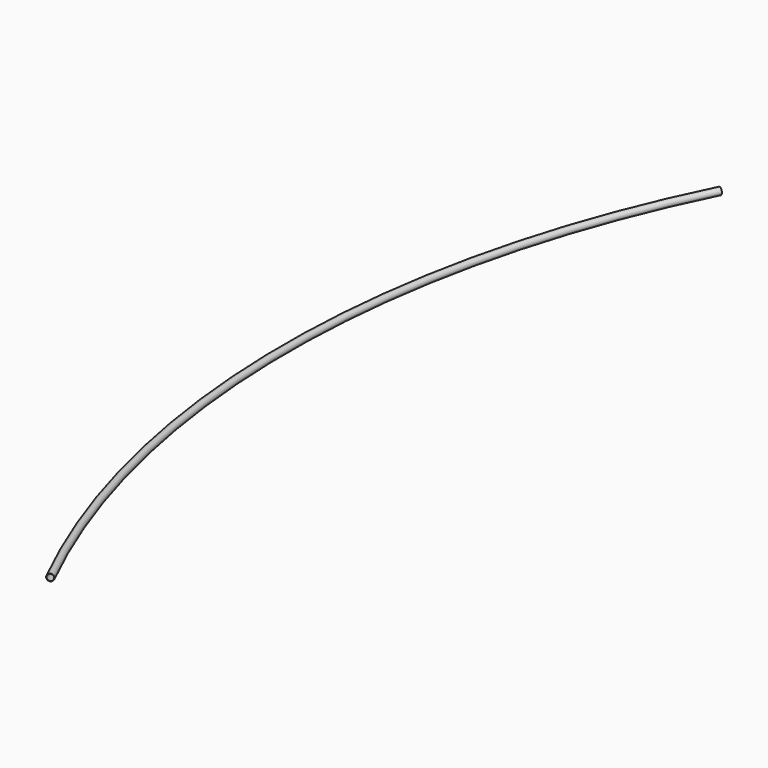
from build123d import *

# Parameters (mm, degrees)
F0_R          = 24.13
F0_R_2        = 21.362
F1_ANGLE_BACK = 26.465
F1_ANGLE      = 52.93


with BuildPart() as f1:
    # F0 (on Front) → F1 (revolve)
    with BuildSketch(Plane.XZ, mode=Mode.PRIVATE) as f1_sk:
        Circle(F0_R)
        Circle(F0_R_2, mode=Mode.SUBTRACT)
    revolve(f1_sk.sketch.rotate(Axis((6603, 0, -50), (0, 0, -1)), -F1_ANGLE_BACK), axis=Axis((6603, 0, -50), (0, 0, -1)), revolution_arc=F1_ANGLE)


solid = f1.part
